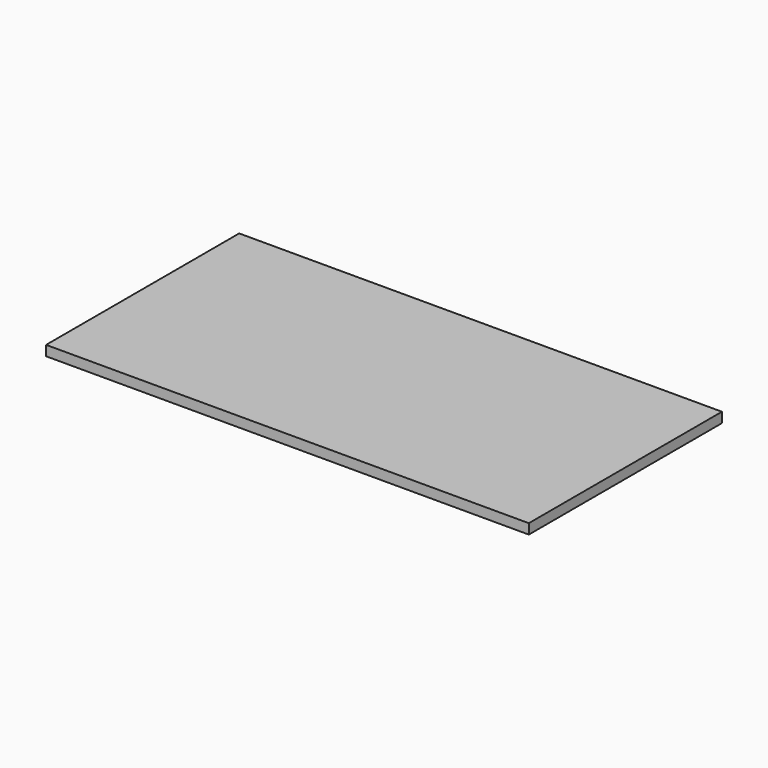
from build123d import *

# Parameters (mm, degrees)
F0_W     = 304.8
F0_H     = 609.6
F1_DEPTH = 12.7
F2_ANGLE = 90


with BuildPart() as f1:
    # F0 (on Top) → F1 (new body)
    with BuildSketch(Plane.XY):
        with Locations((1.9180476665, 142.5372937502)):
            Rectangle(F0_W, F0_H)
    extrude(amount=F1_DEPTH)


with BuildPart() as f1_1:
    # F2: moved
    add(f1.part.rotate(Axis((154.3180476665, -162.2627062498, 6.35), (0, 0, -1)), F2_ANGLE))


solid = f1_1.part
